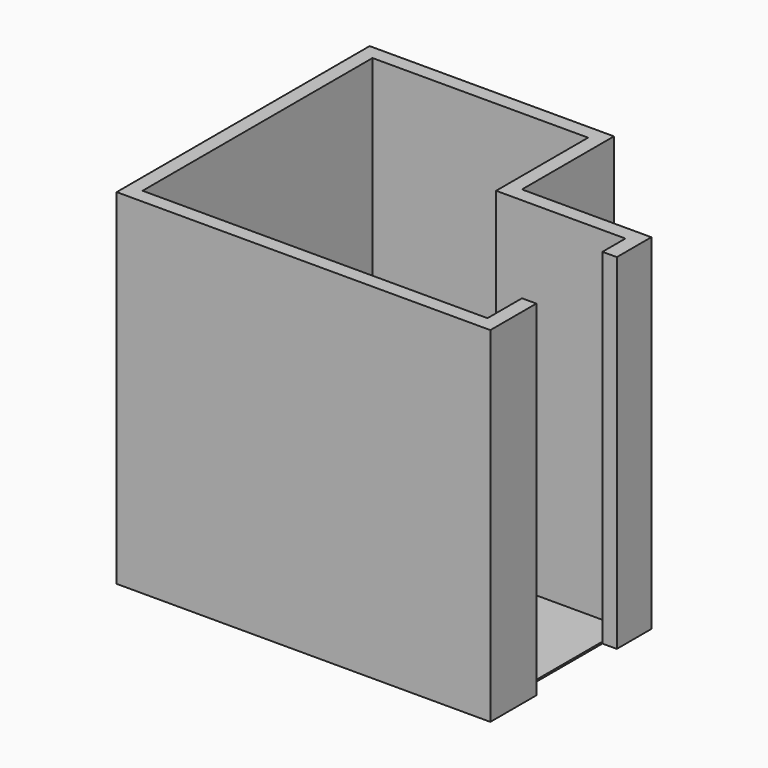
from build123d import *

# Parameters (mm, degrees)
F1_DEPTH = 2438.4
F3_DEPTH = 12.7


with BuildPart() as f1:
    # F0 (on Top) → F1 (new body)
    with BuildSketch(Plane.XY):
        Polygon((1219.2, -711.2), (1219.2, -1016), (-1219.2, -1016), (-1219.2, 1016), (304.8, 1016), (304.8, 203.2), (1219.2, 203.2), (1219.2, 0), (1320.8, 0), (1320.8, 304.8), (406.4, 304.8), (406.4, 1117.6), (-1320.8, 1117.6), (-1320.8, -1117.6), (1320.8, -1117.6), (1320.8, -711.2), align=None)
    extrude(amount=F1_DEPTH)


with BuildPart() as f3:
    # F2 (on face) → F3 (new body)
    with BuildSketch(Plane(origin=(0, 0, 0), x_dir=(1, 0, 0), z_dir=(0, 0, -1))):
        Polygon((1219.2, 711.2), (1219.2, 1016), (-1219.2, 1016), (-1219.2, -1016), (304.8, -1016), (304.8, -203.2), (1219.2, -203.2), (1219.2, 0), align=None)
    extrude(amount=-F3_DEPTH)


solid = Compound([f1.part, f3.part])
